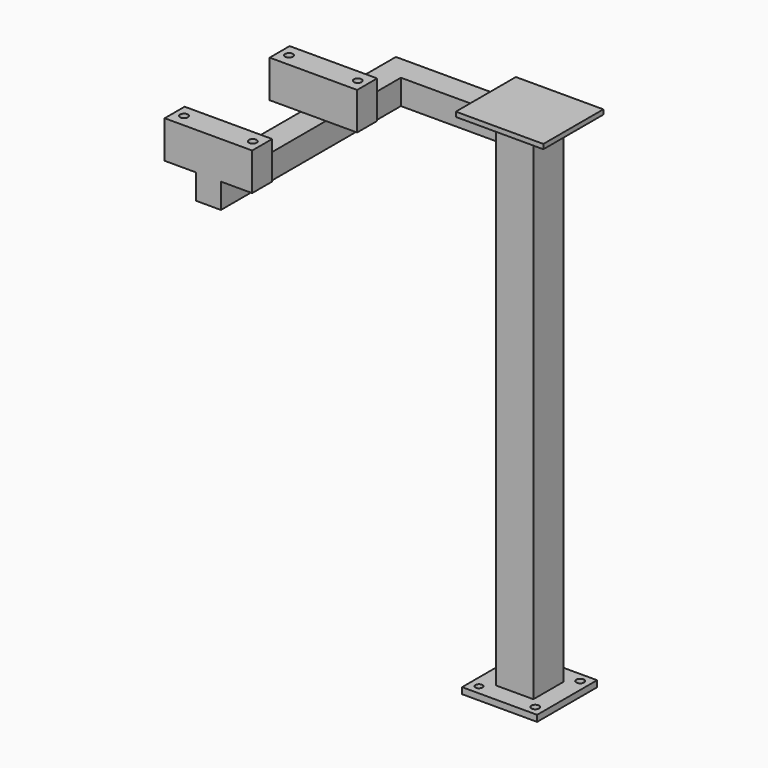
from build123d import *

# Parameters (mm, degrees)
F0_W      = 152.4
F0_H      = 152.4
F1_DEPTH  = 12.7
F2_W      = 76.2
F2_H      = 76.2
F2_W_2    = 63.5
F2_H_2    = 63.5
F3_DEPTH  = 1016
F4_W      = 41.275
F4_H      = 41.275
F5_DEPTH  = 254
F6_W      = 50.8
F6_H      = 50.8
F7_DEPTH  = 457.2
F8_W      = 177.8
F8_H      = 50.8
F9_DEPTH  = 76.2
F11_DEPTH = 9.525
F13_DEPTH = 19.05
F15_DEPTH = 19.05
F16_R     = 7.9375
F17_DEPTH = 25.4


with BuildPart() as f1:
    # F0 (on Top) → F1 (new body)
    with BuildSketch(Plane.XY):
        with Locations((76.2, 76.2)):
            Rectangle(F0_W, F0_H)
    extrude(amount=F1_DEPTH)

    # F2 (on face) → F3 (join)
    with BuildSketch(Plane.XY.offset(12.7)):
        with Locations((76.2, 76.2)):
            Rectangle(F2_W, F2_H)
        with Locations((76.2, 76.2)):
            Rectangle(F2_W_2, F2_H_2, mode=Mode.SUBTRACT)
    extrude(amount=F3_DEPTH)

    # F4 (on face) → F5 (join)
    with BuildSketch(Plane(origin=(38.1, 0, 0), x_dir=(0, -1, 0), z_dir=(-1, 0, 0))):
        Polygon((-50.8, 1028.7), (-101.6, 1028.7), (-101.6, 1023.9375), (-101.6, 977.9), (-50.8, 977.9), align=None)
        with Locations((-76.2, 1003.3)):
            Rectangle(F4_W, F4_H, mode=Mode.SUBTRACT)
    extrude(amount=F5_DEPTH)

    # F6 (on face) → F7 (join)
    with BuildSketch(Plane.XZ.offset(-50.8)):
        with Locations((-190.5, 1003.3)):
            Rectangle(F6_W, F6_H)
    extrude(amount=F7_DEPTH)

    # F8 (on face) → F9 (join)
    with BuildSketch(Plane.XY.offset(1028.7)):
        with Locations((-190.5, -381)):
            Rectangle(F8_W, F8_H)
        Polygon((-101.6, -88.9), (-165.1, -88.9), (-279.4, -88.9), (-279.4, -139.7), (-101.6, -139.7), align=None)
    extrude(amount=F9_DEPTH)

    # F10 (on face) → F11 (join)
    with BuildSketch(Plane.XY.offset(1028.7)):
        Polygon((165.1, 152.4), (114.3, 152.4), (-12.7, 152.4), (-12.7, 0), (165.1, 0), align=None)
    extrude(amount=F11_DEPTH)

    # F12 (on face) → F13 (cut)
    with BuildSketch(Plane.XY.offset(1104.9)):
        with BuildLine():
            Line((-268.2875, -114.3), (-260.35, -114.3))
            Line((-260.35, -114.3), (-252.4125, -114.3))
            ThreePointArc((-252.4125, -114.3), (-260.35, -106.3625), (-268.2875, -114.3))
        make_face()
        with BuildLine():
            Line((-252.4125, -114.3), (-260.35, -114.3))
            Line((-260.35, -114.3), (-268.2875, -114.3))
            ThreePointArc((-268.2875, -114.3), (-260.35, -122.2375), (-252.4125, -114.3))
        make_face()
        with BuildLine():
            ThreePointArc((-112.7125, -114.3), (-120.65, -106.3625), (-128.5875, -114.3))
            Line((-128.5875, -114.3), (-120.65, -114.3))
            Line((-120.65, -114.3), (-112.7125, -114.3))
        make_face()
        with BuildLine():
            Line((-120.65, -114.3), (-128.5875, -114.3))
            ThreePointArc((-128.5875, -114.3), (-120.65, -122.2375), (-112.7125, -114.3))
            Line((-112.7125, -114.3), (-120.65, -114.3))
        make_face()
    extrude(amount=-F13_DEPTH, mode=Mode.SUBTRACT)

    # F14 (on face) → F15 (cut)
    with BuildSketch(Plane.XY.offset(1104.9)):
        with BuildLine():
            Line((-268.2875, -381), (-260.35, -381))
            Line((-260.35, -381), (-252.4125, -381))
            ThreePointArc((-252.4125, -381), (-260.35, -373.0625), (-268.2875, -381))
        make_face()
        with BuildLine():
            Line((-252.4125, -381), (-260.35, -381))
            Line((-260.35, -381), (-268.2875, -381))
            ThreePointArc((-268.2875, -381), (-260.35, -388.9375), (-252.4125, -381))
        make_face()
        with BuildLine():
            ThreePointArc((-112.7125, -381), (-120.65, -373.0625), (-128.5875, -381))
            Line((-128.5875, -381), (-120.65, -381))
            Line((-120.65, -381), (-112.7125, -381))
        make_face()
        with BuildLine():
            Line((-120.65, -381), (-128.5875, -381))
            ThreePointArc((-128.5875, -381), (-120.65, -388.9375), (-112.7125, -381))
            Line((-112.7125, -381), (-120.65, -381))
        make_face()
    extrude(amount=-F15_DEPTH, mode=Mode.SUBTRACT)

    # F16 (on face) → F17 (cut)
    with BuildSketch(Plane.XY.offset(12.7)):
        with BuildLine():
            ThreePointArc((19.05, 11.90625), (24.101394, 13.998606), (26.19375, 19.05))
            ThreePointArc((26.19375, 19.05), (13.998606, 24.101394), (19.05, 11.90625))
        make_face()
        with BuildLine():
            ThreePointArc((133.35, 141.2875), (127.73734, 127.73734), (141.2875, 133.35))
            ThreePointArc((141.2875, 133.35), (138.96266, 138.96266), (133.35, 141.2875))
        make_face()
        with Locations((133.35, 19.05)):
            Circle(F16_R)
        with BuildLine():
            ThreePointArc((19.05, 141.2875), (13.43734, 127.73734), (26.9875, 133.35))
            ThreePointArc((26.9875, 133.35), (24.66266, 138.96266), (19.05, 141.2875))
        make_face()
    extrude(amount=-F17_DEPTH, mode=Mode.SUBTRACT)


solid = f1.part
